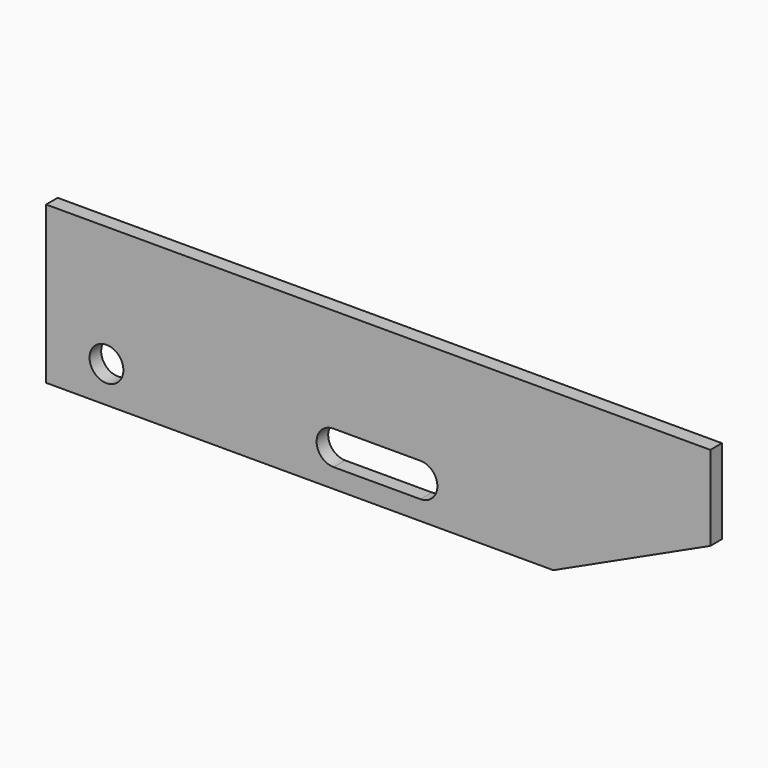
from build123d import *

# Parameters (mm, degrees)
F0_R     = 7
F1_DEPTH = 6


with BuildPart() as f1:
    # F0 (on Front) → F1 (new body)
    with BuildSketch(Plane.XZ):
        Polygon((275, 0), (0, 0), (0, -65), (210, -65), (275, -35), align=None)
        with Locations((25, -50)):
            Circle(F0_R, mode=Mode.SUBTRACT)
        with BuildLine():
            ThreePointArc((154.999536, -43), (162, -49.999783), (154.999969, -57))
            Line((154.999969, -57), (119.04693, -56.999843))
            ThreePointArc((119.04693, -56.999843), (112.000947, -50.11512), (118.816702, -43.0024))
            ThreePointArc((118.816702, -43.0024), (118.999536, -43), (119.18237, -43.002376))
            Line((119.18237, -43.002376), (154.999536, -43))
        make_face(mode=Mode.SUBTRACT)
    extrude(amount=F1_DEPTH)


solid = f1.part
